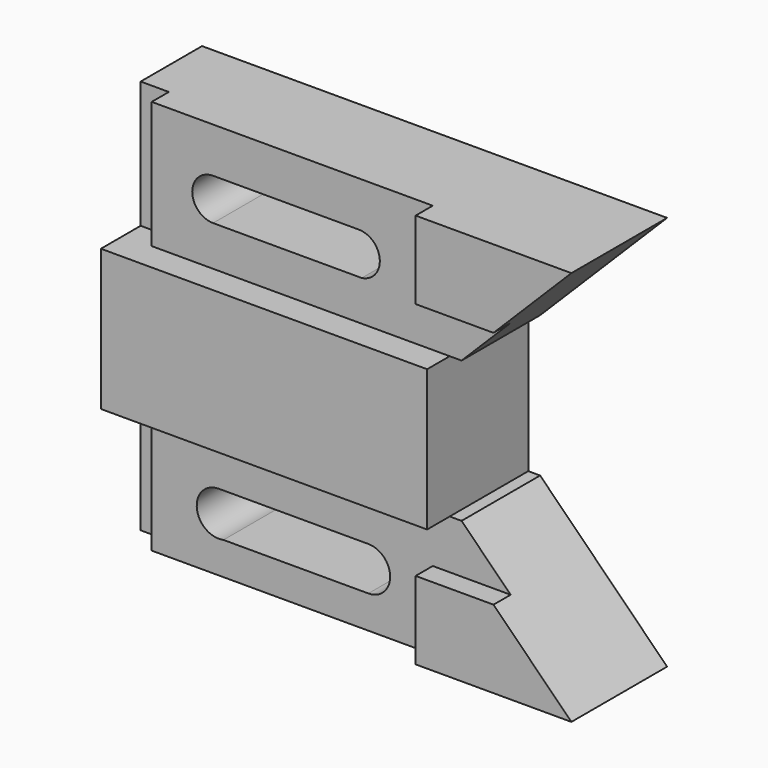
from build123d import *

# Parameters (mm, degrees)
F0_W     = 6.35
F0_H     = 28.575
F1_DEPTH = 28.448
F2_DEPTH = 6.35
F3_DEPTH = 6.35
F4_DEPTH = 6.35
F5_DEPTH = 5.588
F6_DEPTH = 6.35
F7_DEPTH = 11.176
F8_DEPTH = 1.524


with BuildPart() as f1:
    # F0 (on Front) → F1 (new body)
    with BuildSketch(Plane.XZ):
        with Locations((-61.201207, 14.2875)):
            Rectangle(F0_W, F0_H)
        Polygon((5.219793, 28.575), (-58.026207, 28.575), (-58.026207, 0), (9.029793, 0), (11.696793, 0), (22.745793, 11.049), (5.219793, 11.049), align=None)
        with BuildLine():
            ThreePointArc((-44.21325, 9.054515), (-48.90092, 13.742185), (-44.21325, 18.429855))
            Line((-44.21325, 18.429855), (-11.399561, 18.429855))
            ThreePointArc((-11.399561, 18.429855), (-6.701007, 14.040749), (-10.760333, 9.054515))
            Line((-10.760333, 9.054515), (-44.21325, 9.054515))
        make_face(mode=Mode.SUBTRACT)
        Polygon((-58.026207, 0), (-64.376207, 0), (-64.376207, -31.75), (-58.026207, -31.75), (9.029793, -31.75), (9.029793, 0), align=None)
        Polygon((40.271793, 28.575), (5.219793, 28.575), (5.219793, 11.049), (22.745793, 11.049), align=None)
        with Locations((-61.201207, -46.0375)):
            Rectangle(F0_W, F0_H)
        Polygon((9.029793, -31.75), (-58.026207, -31.75), (-58.026207, -60.325), (5.219793, -60.325), (5.219793, -42.799), (22.745793, -42.799), (11.696793, -31.75), align=None)
        with BuildLine():
            ThreePointArc((-41.869413, -52.950572), (-47.864406, -48.643555), (-42.934794, -43.14908))
            Line((-42.934794, -43.14908), (-9.268802, -43.14908))
            ThreePointArc((-9.268802, -43.14908), (-4.368056, -48.049826), (-9.268802, -52.950572))
            Line((-9.268802, -52.950572), (-41.869413, -52.950572))
        make_face(mode=Mode.SUBTRACT)
        Polygon((5.219793, -42.799), (5.219793, -60.325), (40.271793, -60.325), (22.745793, -42.799), align=None)
    extrude(amount=-F1_DEPTH)

    # F0 (on Front) → F2 (cut)
    with BuildSketch(Plane.XZ):
        Polygon((5.219793, 28.575), (-58.026207, 28.575), (-58.026207, 0), (9.029793, 0), (11.696793, 0), (22.745793, 11.049), (5.219793, 11.049), align=None)
        with BuildLine():
            ThreePointArc((-44.21325, 9.054515), (-48.90092, 13.742185), (-44.21325, 18.429855))
            Line((-44.21325, 18.429855), (-11.399561, 18.429855))
            ThreePointArc((-11.399561, 18.429855), (-6.701007, 14.040749), (-10.760333, 9.054515))
            Line((-10.760333, 9.054515), (-44.21325, 9.054515))
        make_face(mode=Mode.SUBTRACT)
    extrude(amount=F2_DEPTH, mode=Mode.SUBTRACT)

    # F0 (on Front) → F3 (cut)
    with BuildSketch(Plane.XZ):
        Polygon((9.029793, -31.75), (-58.026207, -31.75), (-58.026207, -60.325), (5.219793, -60.325), (5.219793, -42.799), (22.745793, -42.799), (11.696793, -31.75), align=None)
        with BuildLine():
            ThreePointArc((-41.869413, -52.950572), (-47.864406, -48.643555), (-42.934794, -43.14908))
            Line((-42.934794, -43.14908), (-9.268802, -43.14908))
            ThreePointArc((-9.268802, -43.14908), (-4.368056, -48.049826), (-9.268802, -52.950572))
            Line((-9.268802, -52.950572), (-41.869413, -52.950572))
        make_face(mode=Mode.SUBTRACT)
    extrude(amount=F3_DEPTH, mode=Mode.SUBTRACT)

    # F0 (on Front) → F4 (cut)
    with BuildSketch(Plane.XZ):
        Polygon((5.219793, 28.575), (-58.026207, 28.575), (-58.026207, 0), (9.029793, 0), (11.696793, 0), (22.745793, 11.049), (5.219793, 11.049), align=None)
        with BuildLine():
            ThreePointArc((-44.21325, 9.054515), (-48.90092, 13.742185), (-44.21325, 18.429855))
            Line((-44.21325, 18.429855), (-11.399561, 18.429855))
            ThreePointArc((-11.399561, 18.429855), (-6.701007, 14.040749), (-10.760333, 9.054515))
            Line((-10.760333, 9.054515), (-44.21325, 9.054515))
        make_face(mode=Mode.SUBTRACT)
    extrude(amount=-F4_DEPTH, mode=Mode.SUBTRACT)

    # F0 (on Front) → F5 (cut, symmetric)
    with BuildSketch(Plane.XZ):
        Polygon((5.219793, 28.575), (-58.026207, 28.575), (-58.026207, 0), (9.029793, 0), (11.696793, 0), (22.745793, 11.049), (5.219793, 11.049), align=None)
        with BuildLine():
            ThreePointArc((-44.21325, 9.054515), (-48.90092, 13.742185), (-44.21325, 18.429855))
            Line((-44.21325, 18.429855), (-11.399561, 18.429855))
            ThreePointArc((-11.399561, 18.429855), (-6.701007, 14.040749), (-10.760333, 9.054515))
            Line((-10.760333, 9.054515), (-44.21325, 9.054515))
        make_face(mode=Mode.SUBTRACT)
        Polygon((9.029793, -31.75), (-58.026207, -31.75), (-58.026207, -60.325), (5.219793, -60.325), (5.219793, -42.799), (22.745793, -42.799), (11.696793, -31.75), align=None)
        with BuildLine():
            ThreePointArc((-41.869413, -52.950572), (-47.864406, -48.643555), (-42.934794, -43.14908))
            Line((-42.934794, -43.14908), (-9.268802, -43.14908))
            ThreePointArc((-9.268802, -43.14908), (-4.368056, -48.049826), (-9.268802, -52.950572))
            Line((-9.268802, -52.950572), (-41.869413, -52.950572))
        make_face(mode=Mode.SUBTRACT)
    extrude(amount=F5_DEPTH, both=True, mode=Mode.SUBTRACT)

    # F0 (on Front) → F6 (cut)
    with BuildSketch(Plane.XZ):
        Polygon((5.219793, 28.575), (-58.026207, 28.575), (-58.026207, 0), (9.029793, 0), (11.696793, 0), (22.745793, 11.049), (5.219793, 11.049), align=None)
        with BuildLine():
            ThreePointArc((-44.21325, 9.054515), (-48.90092, 13.742185), (-44.21325, 18.429855))
            Line((-44.21325, 18.429855), (-11.399561, 18.429855))
            ThreePointArc((-11.399561, 18.429855), (-6.701007, 14.040749), (-10.760333, 9.054515))
            Line((-10.760333, 9.054515), (-44.21325, 9.054515))
        make_face(mode=Mode.SUBTRACT)
        Polygon((9.029793, -31.75), (-58.026207, -31.75), (-58.026207, -60.325), (5.219793, -60.325), (5.219793, -42.799), (22.745793, -42.799), (11.696793, -31.75), align=None)
        with BuildLine():
            ThreePointArc((-41.869413, -52.950572), (-47.864406, -48.643555), (-42.934794, -43.14908))
            Line((-42.934794, -43.14908), (-9.268802, -43.14908))
            ThreePointArc((-9.268802, -43.14908), (-4.368056, -48.049826), (-9.268802, -52.950572))
            Line((-9.268802, -52.950572), (-41.869413, -52.950572))
        make_face(mode=Mode.SUBTRACT)
    extrude(amount=-F6_DEPTH, mode=Mode.SUBTRACT)

    # F0 (on Front) → F7 (cut)
    with BuildSketch(Plane.XZ):
        with Locations((-61.201207, 14.2875)):
            Rectangle(F0_W, F0_H)
        with Locations((-61.201207, -46.0375)):
            Rectangle(F0_W, F0_H)
    extrude(amount=-F7_DEPTH, mode=Mode.SUBTRACT)

    # F0 (on Front) → F8 (cut)
    with BuildSketch(Plane.XZ):
        Polygon((40.271793, 28.575), (5.219793, 28.575), (5.219793, 11.049), (22.745793, 11.049), align=None)
        Polygon((5.219793, -42.799), (5.219793, -60.325), (40.271793, -60.325), (22.745793, -42.799), align=None)
    extrude(amount=-F8_DEPTH, mode=Mode.SUBTRACT)


solid = f1.part
